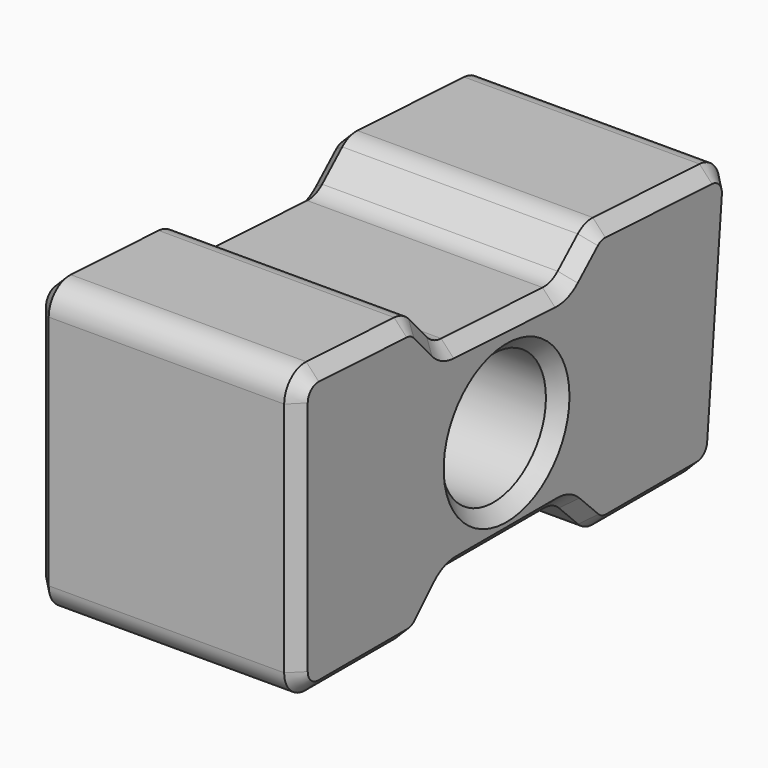
from build123d import *

# Parameters (mm, degrees)
SKETCH_R     = 2.505
PAD_DEPTH    = 10
FILLET_R     = 1
CHAMFER_SIZE = 0.5


with BuildPart() as part:
    # Sketch → Pad (new body)
    with BuildSketch(Plane.YZ):
        Polygon((0, 0), (0, 11.094006), (5.666667, 10.797029), (7.086107, 9.220581), (12.756885, 8.923388), (14.333333, 10.342828), (20.874887, 10), (20, 0), (14.333333, 0), (12.833333, 1.5), (7.166667, 1.5), (5.666667, 0), align=None)
        with Locations((10, 5.171414)):
            Circle(SKETCH_R, mode=Mode.SUBTRACT)
    extrude(amount=PAD_DEPTH)

    # Fillet
    fillet_edges = [part.edges().sort_by_distance(p)[0] for p in [
        (5, 0, 11.094006),
        (5, 5.666667, 10.797029),
        (5, 7.086107, 9.220581),
        (5, 12.756885, 8.923388),
        (5, 14.333333, 10.342828),
        (5, 20.874887, 10),
        (5, 0, 0),
        (5, 5.666667, 0),
        (5, 7.166667, 1.5),
        (5, 12.833333, 1.5),
        (5, 14.333333, 0),
        (5, 20, 0),
    ]]
    fillet(fillet_edges, radius=FILLET_R)

    # Chamfer
    chamfer_edges = [part.edges().sort_by_distance(p)[0] for p in [
        (0, 3.126227, 0),
        (0, 0.292893, 0.292893),
        (0, 5.635137, 0.07612),
        (0, 0, 5.520113),
        (0, 6.416667, 0.75),
        (0, 0.311645, 10.765601),
        (0, 7.198197, 1.42388),
        (0, 3.152678, 10.928782),
        (0, 10, 1.5),
        (0, 5.631196, 10.722663),
        (0, 12.801803, 1.42388),
        (0, 6.376387, 10.008805),
        (0, 13.583333, 0.75),
        (0, 7.121578, 9.294947),
        (0, 14.364863, 0.07612),
        (0, 9.921496, 9.071984),
        (0, 16.915608, 0),
        (0, 12.729382, 9.001054),
        (0, 19.759259, 0.262723),
        (0, 13.545109, 9.633108),
        (0, 20.432249, 4.940627),
        (0, 14.360836, 10.265162),
        (0, 20.543149, 9.711625),
        (0, 17.293877, 10.187673),
        (0, 7.495, 5.171414),
        (10, 3.126227, 0),
        (10, 0.292893, 0.292893),
        (10, 5.635137, 0.07612),
        (10, 0, 5.520113),
        (10, 6.416667, 0.75),
        (10, 0.311645, 10.765601),
        (10, 7.198197, 1.42388),
        (10, 3.152678, 10.928782),
        (10, 10, 1.5),
        (10, 5.631196, 10.722663),
        (10, 12.801803, 1.42388),
        (10, 6.376387, 10.008805),
        (10, 13.583333, 0.75),
        (10, 7.121578, 9.294947),
        (10, 14.364863, 0.07612),
        (10, 9.921496, 9.071984),
        (10, 16.915608, 0),
        (10, 12.729382, 9.001054),
        (10, 19.759259, 0.262723),
        (10, 13.545109, 9.633108),
        (10, 20.432249, 4.940627),
        (10, 14.360836, 10.265162),
        (10, 20.543149, 9.711625),
        (10, 17.293877, 10.187673),
        (10, 7.495, 5.171414),
    ]]
    chamfer(chamfer_edges, length=CHAMFER_SIZE)


solid = part.part
